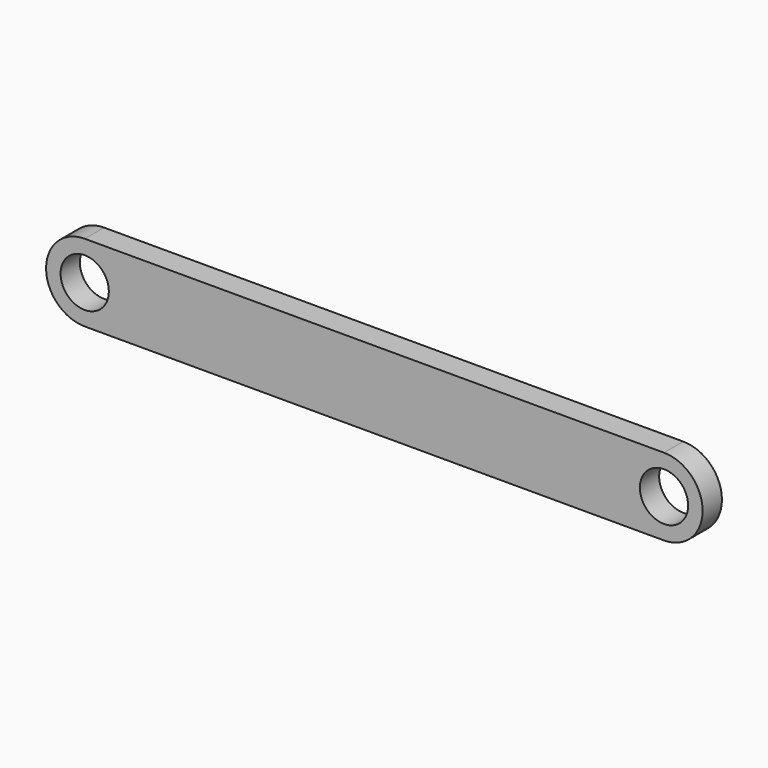
from build123d import *

# Parameters (mm, degrees)
F0_R     = 2.5
F1_DEPTH = 2.5


with BuildPart() as f1:
    # F0 (on Front) → F1 (new body)
    with BuildSketch(Plane.XZ):
        with BuildLine():
            Line((60, 4), (0, 4))
            ThreePointArc((0, 4), (-4, 0), (0, -4))
            Line((0, -4), (60, -4))
            ThreePointArc((60, -4), (64, 0), (60, 4))
        make_face()
        Circle(F0_R, mode=Mode.SUBTRACT)
        with BuildLine():
            ThreePointArc((57.5, 0), (60, 2.5), (62.5, 0))
            ThreePointArc((62.5, 0), (60, -2.5), (57.5, 0))
        make_face(mode=Mode.SUBTRACT)
    extrude(amount=F1_DEPTH)


solid = f1.part
